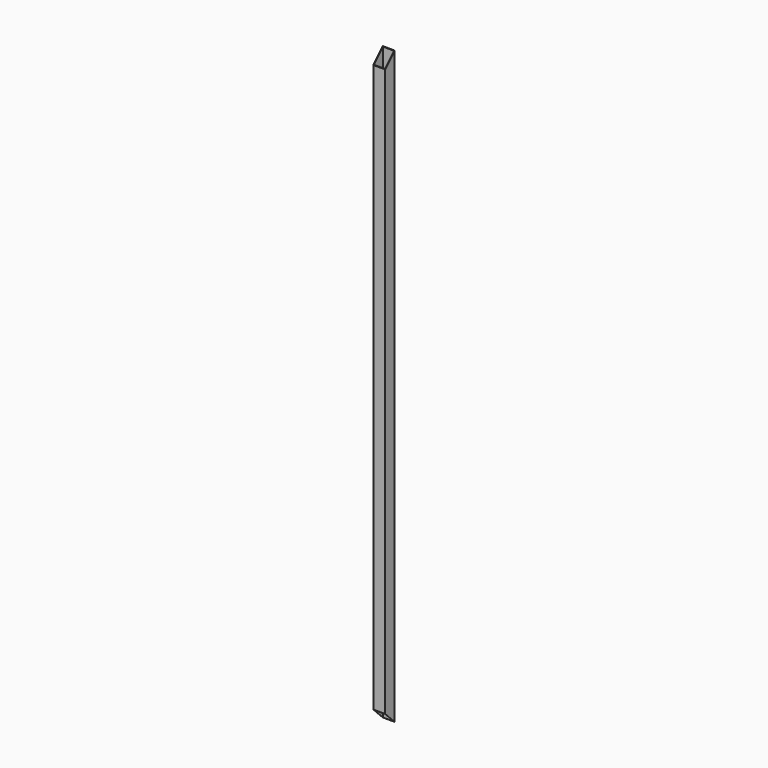
from build123d import *

# Parameters (mm, degrees)
F0_W     = 40
F0_H     = 40
F0_W_2   = 38
F0_H_2   = 38
F1_DEPTH = 1990
F3_DEPTH = 100
F5_DEPTH = 99


with BuildPart() as f1:
    # F0 (on Top) → F1 (new body)
    with BuildSketch(Plane.XY):
        Rectangle(F0_W, F0_H)
        Rectangle(F0_W_2, F0_H_2, mode=Mode.SUBTRACT)
    extrude(amount=F1_DEPTH)

    # F2 (on face) → F3 (cut)
    with BuildSketch(Plane.YZ.offset(20)):
        Polygon((-20, 1950), (20, 1990), (-20, 1990), align=None)
    extrude(amount=-F3_DEPTH, mode=Mode.SUBTRACT)

    # F4 (on face) → F5 (cut)
    with BuildSketch(Plane.YZ.offset(20)):
        Polygon((-20, 0), (20, 0), (-20, 40), align=None)
    extrude(amount=-F5_DEPTH, mode=Mode.SUBTRACT)


solid = f1.part
